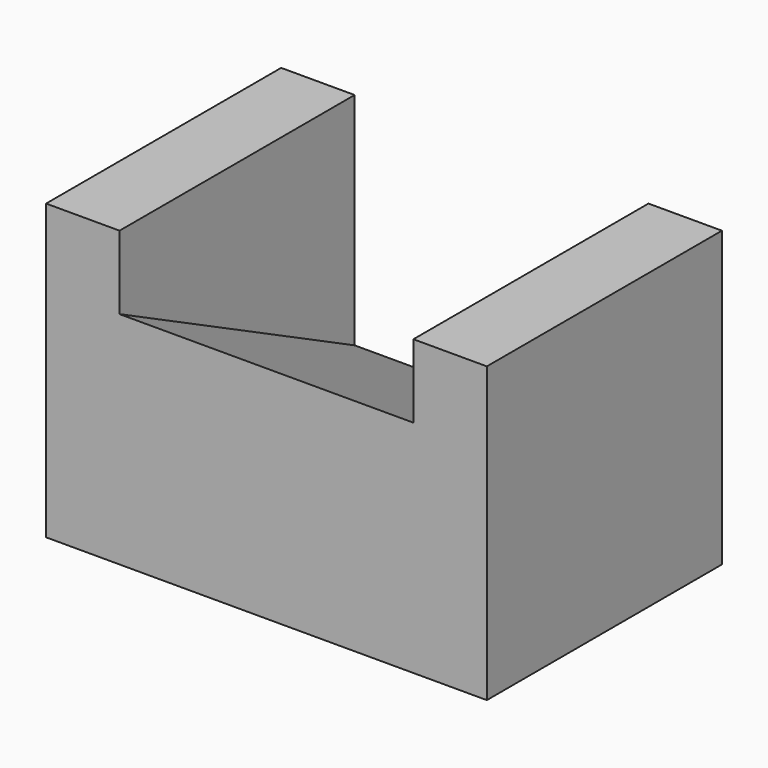
from build123d import *

# Parameters (mm, degrees)
F0_W     = 30
F0_H     = 20
F1_DEPTH = 20
F3_START = -5
F3_DEPTH = 20


with BuildPart() as f1:
    # F0 (on Front) → F1 (new body)
    with BuildSketch(Plane.XZ):
        with Locations((0, 10)):
            Rectangle(F0_W, F0_H)
    extrude(amount=F1_DEPTH)

    # F2 (on face) → F3 (cut)
    with BuildSketch(Plane(origin=(-15, 0, 0), x_dir=(0, -1, 0), z_dir=(-1, 0, 0)).offset(F3_START)):
        Polygon((0, 5), (20, 15), (20, 20), (0, 20), align=None)
    extrude(amount=-F3_DEPTH, mode=Mode.SUBTRACT)


solid = f1.part
